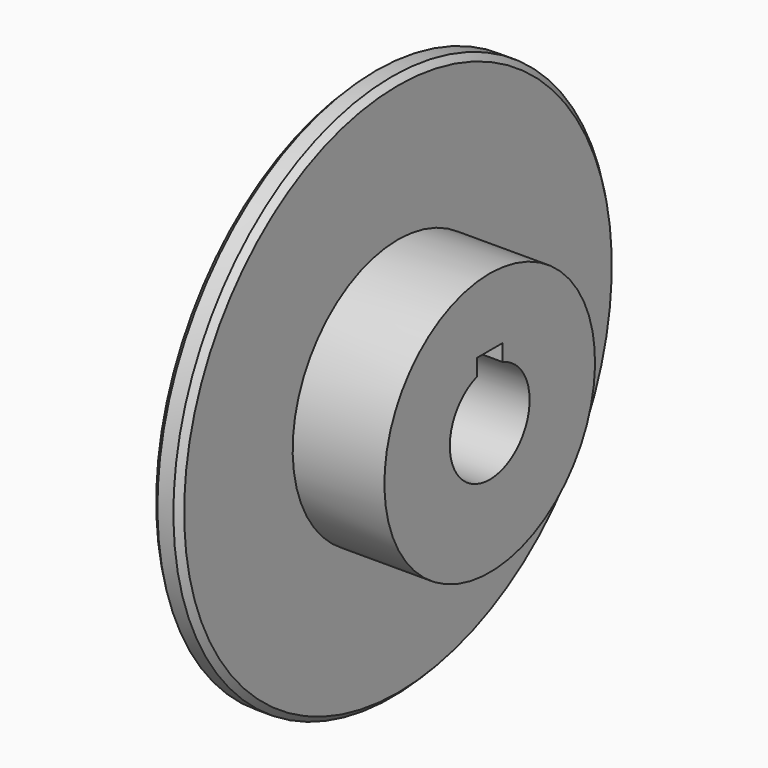
from build123d import *

# Parameters (mm, degrees)
F2_W     = 8
F2_H     = 10
F3_DEPTH = 30.001
F4_SIZE  = 1.5


with BuildPart() as f1:
    # F0 (on Front) → F1 (revolve)
    with BuildSketch(Plane.XZ):
        Polygon((7, 68.5), (0, 68.5), (0, 12.5), (30, 12.5), (30, 33), (7, 33), align=None)
    revolve(axis=Axis((33.79849, 0, 0), (1, 0, 0)))

    # F2 (on Right) → F3 (cut, through all)
    with BuildSketch(Plane.YZ):
        with Locations((0, 11)):
            Rectangle(F2_W, F2_H)
    extrude(amount=F3_DEPTH, mode=Mode.SUBTRACT)

    # F4
    f4_edges = [f1.edges().sort_by_distance(p)[0] for p in [
        (7, 0, -68.5),
        (0, 0, -68.5),
    ]]
    chamfer(f4_edges, length=F4_SIZE)


solid = f1.part
